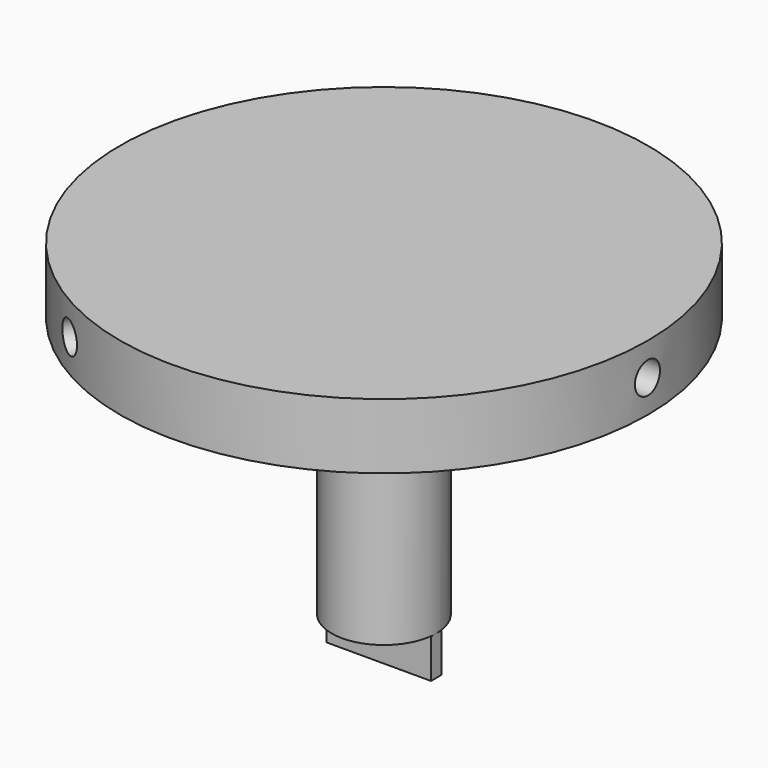
from build123d import *

# Parameters (mm, degrees)
CYLINDER060_R     = 1.2
CYLINDER060_DEPTH = 10
ARRAY013_COUNT    = 3
CYLINDER061_R     = 4
CYLINDER061_DEPTH = 20
BOX014_W          = 8
BOX014_H          = 1
BOX014_DEPTH      = 3
CYLINDER059_R     = 20.2
CYLINDER059_DEPTH = 5


with BuildPart() as pos_plate_screws:
    # Cylinder060 → Cylinder060 (new body)
    with BuildSketch(Plane(origin=(10.5, 0, 74.2), x_dir=(0, 0, -1), z_dir=(1, 0, 0))):
        Circle(CYLINDER060_R)
    extrude(amount=CYLINDER060_DEPTH)

    # Array013: pos-plate-screws ×3 about axis
    array013_axis = Axis((0, 0, 0), (0, 0, 1))


with BuildPart() as pos_plate_screws_1:
    add(pos_plate_screws.part)
    for i in range(1, ARRAY013_COUNT):
        add(pos_plate_screws.part.rotate(array013_axis, i * 360 / ARRAY013_COUNT))


with BuildPart() as pos_cylinder:
    # Cylinder061 → Cylinder061 (new body)
    with BuildSketch(Plane.XY.offset(51.7)):
        Circle(CYLINDER061_R)
    extrude(amount=CYLINDER061_DEPTH)


with BuildPart() as pos_pick:
    # Box014 → Box014 (new body)
    with BuildSketch(Plane(origin=(-4, -0.5, 48.7), x_dir=(1, 0, 0), z_dir=(0, 0, 1))):
        with Locations((4, 0.5)):
            Rectangle(BOX014_W, BOX014_H)
    extrude(amount=BOX014_DEPTH)


with BuildPart() as turret_pos_pick:
    # Cylinder059 → Cylinder059 (new body)
    with BuildSketch(Plane.XY.offset(71.7)):
        Circle(CYLINDER059_R)
    extrude(amount=CYLINDER059_DEPTH)

    # Fusion026: union pos-cylinder, pos-pick
    add(pos_cylinder.part)
    add(pos_pick.part)

    # Cut048: cut pos-plate-screws
    add(pos_plate_screws_1.part, mode=Mode.SUBTRACT)


solid = turret_pos_pick.part
